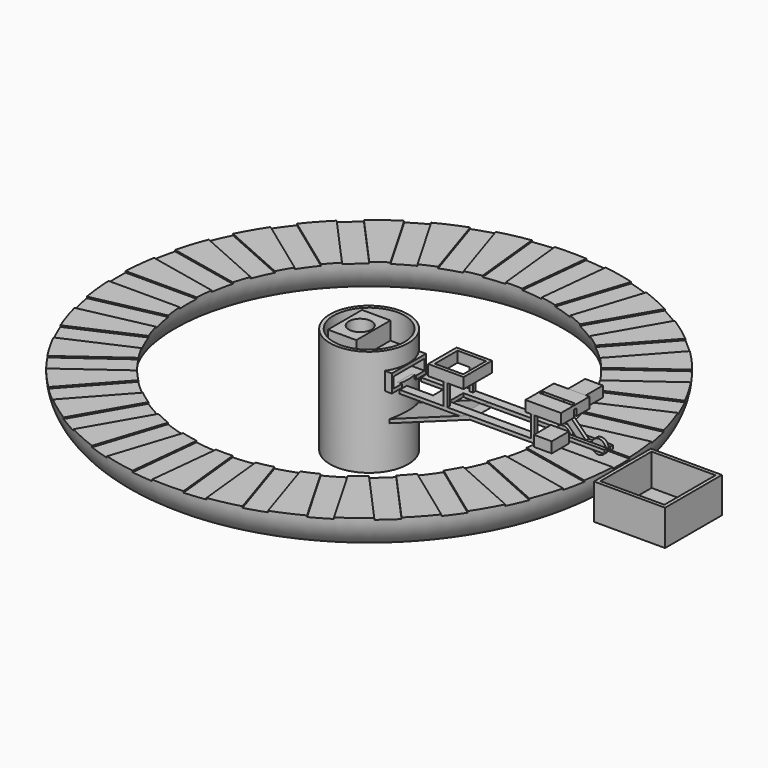
from build123d import *

# Parameters (mm, degrees)
BOX008_W                 = 120
BOX008_H                 = 110
BOX008_DEPTH             = 30
CYLINDER001_R            = 100
CYLINDER001_DEPTH        = 300
CYLINDER_R               = 110
CYLINDER_DEPTH           = 300
BOX009_W                 = 100
BOX009_H                 = 50
BOX009_DEPTH             = 10
BOX003_W                 = 120
BOX003_H                 = 110
BOX003_DEPTH             = 30
BOX004_W                 = 120
BOX004_H                 = 110
BOX004_DEPTH             = 30
BOX001_W                 = 100
BOX001_H                 = 120
BOX001_DEPTH             = 50
BOX011_W                 = 250
BOX011_H                 = 50
BOX011_DEPTH             = 10
BOX010_W                 = 100
BOX010_H                 = 50
BOX010_DEPTH             = 10
BOX007_W                 = 380
BOX007_H                 = 100
BOX007_DEPTH             = 10
BOX013_W                 = 100
BOX013_H                 = 50
BOX013_DEPTH             = 10
BOX012_W                 = 250
BOX012_H                 = 100
BOX012_DEPTH             = 10
BOX012_PITCH_ANGLE       = -20
BOX015_W                 = 50
BOX015_H                 = 64
BOX015_DEPTH             = 30
CYLINDER002_R            = 32
CYLINDER002_DEPTH        = 90
BOX014_W                 = 80
BOX014_H                 = 120
BOX014_DEPTH             = 100
CYLINDER003_R            = 20
CYLINDER003_DEPTH        = 10
CYLINDER003_ROLL_ANGLE   = 90
CYLINDER004_R            = 20
CYLINDER004_DEPTH        = 10
CYLINDER004_ROLL_ANGLE   = 90
BOX016_W                 = 150
BOX016_H                 = 10
BOX016_DEPTH             = 10
BOX017_W                 = 150
BOX017_H                 = 10
BOX017_DEPTH             = 10
BOX019_W                 = 150
BOX019_H                 = 10
BOX019_DEPTH             = 10
BOX018_W                 = 20
BOX018_H                 = 10
BOX018_DEPTH             = 100
BOX018_PITCH_ANGLE       = -45
TORUS001_R               = 2
TORUS001_ROLL_ANGLE      = 89.992927
TORUS001_PITCH_ANGLE     = -0.636553
TORUS001_PLACEMENT_ANGLE = 0.636632
CYLINDER005_R            = 5
CYLINDER005_DEPTH        = 5
CYLINDER005_ROLL_ANGLE   = 90
TORUS002_R               = 2
TORUS002_ROLL_ANGLE      = 89.992927
TORUS002_PITCH_ANGLE     = -0.636553
TORUS002_PLACEMENT_ANGLE = 0.636632
CYLINDER006_R            = 5
CYLINDER006_DEPTH        = 5
CYLINDER006_ROLL_ANGLE   = 90
BOX020_W                 = 50
BOX020_H                 = 60
BOX020_DEPTH             = 30
BOX021_W                 = 60
BOX021_H                 = 10
BOX021_DEPTH             = 10
BOX021_PITCH_ANGLE       = 90
BOX022_W                 = 60
BOX022_H                 = 10
BOX022_DEPTH             = 10
BOX022_PITCH_ANGLE       = 90
BOX025_W                 = 90
BOX025_H                 = 10
BOX025_DEPTH             = 30
BOX024_W                 = 90
BOX024_H                 = 10
BOX024_DEPTH             = 30
BOX023_W                 = 100
BOX023_H                 = 100
BOX023_DEPTH             = 30
BOX026_W                 = 50
BOX026_H                 = 60
BOX026_DEPTH             = 30
BOX027_W                 = 60
BOX027_H                 = 10
BOX027_DEPTH             = 10
BOX027_PITCH_ANGLE       = 90
BOX028_W                 = 60
BOX028_H                 = 10
BOX028_DEPTH             = 10
BOX028_PITCH_ANGLE       = 90
BOX030_W                 = 80
BOX030_H                 = 80
BOX030_DEPTH             = 30
BOX029_W                 = 100
BOX029_H                 = 100
BOX029_DEPTH             = 30
BOX035_W                 = 180
BOX035_H                 = 180
BOX035_DEPTH             = 90
BOX034_W                 = 200
BOX034_H                 = 200
BOX034_DEPTH             = 100
BOX036_W                 = 206
BOX036_H                 = 60
BOX036_DEPTH             = 30
ARRAY_COUNT              = 30
BOX_W                    = 1500
BOX_H                    = 1500
BOX_DEPTH                = 150
TORUS_R                  = 100


with BuildPart() as obj1:
    # Box008 → Box008 (new body)
    with BuildSketch(Plane(origin=(4, -55, 10), x_dir=(1, 0, 0), z_dir=(0, 0, 1))):
        with Locations((60, 55)):
            Rectangle(BOX008_W, BOX008_H)
    extrude(amount=BOX008_DEPTH)


with BuildPart() as zylinder001:
    # Cylinder001 → Cylinder001 (new body)
    with BuildSketch(Plane.XY.offset(-10)):
        Circle(CYLINDER001_R)
    extrude(amount=CYLINDER001_DEPTH)


with BuildPart() as cut005:
    # Cylinder → Cylinder (new body)
    with BuildSketch(Plane.XY.offset(-200)):
        Circle(CYLINDER_R)
    extrude(amount=CYLINDER_DEPTH)

    # Cut004: cut Zylinder001
    add(zylinder001.part, mode=Mode.SUBTRACT)

    # Cut005: cut obj1
    add(obj1.part, mode=Mode.SUBTRACT)


with BuildPart() as obj2:
    # Box009 → Box009 (new body)
    with BuildSketch(Plane(origin=(100, -25, 0), x_dir=(1, 0, 0), z_dir=(0, 0, 1))):
        with Locations((50, 25)):
            Rectangle(BOX009_W, BOX009_H)
    extrude(amount=BOX009_DEPTH)


with BuildPart() as obj3:
    # Box003 → Box003 (new body)
    with BuildSketch(Plane(origin=(4, -55, 10), x_dir=(1, 0, 0), z_dir=(0, 0, 1))):
        with Locations((60, 55)):
            Rectangle(BOX003_W, BOX003_H)
    extrude(amount=BOX003_DEPTH)


with BuildPart() as obj4:
    # Box004 → Box004 (new body)
    with BuildSketch(Plane(origin=(4, -55, 10), x_dir=(1, 0, 0), z_dir=(0, 0, 1))):
        with Locations((60, 55)):
            Rectangle(BOX004_W, BOX004_H)
    extrude(amount=BOX004_DEPTH)


with BuildPart() as cut008:
    # Box001 → Box001 (new body)
    with BuildSketch(Plane(origin=(12, -60, 0), x_dir=(1, 0, 0), z_dir=(0, 0, 1))):
        with Locations((50, 60)):
            Rectangle(BOX001_W, BOX001_H)
    extrude(amount=BOX001_DEPTH)

    # Cut003: cut obj4
    add(obj4.part, mode=Mode.SUBTRACT)

    # Cut006: cut obj3
    add(obj3.part, mode=Mode.SUBTRACT)

    # Cut008: cut obj2
    add(obj2.part, mode=Mode.SUBTRACT)


with BuildPart() as obj5:
    # Box011 → Box011 (new body)
    with BuildSketch(Plane(origin=(245, -25, 0), x_dir=(1, 0, 0), z_dir=(0, 0, 1))):
        with Locations((125, 25)):
            Rectangle(BOX011_W, BOX011_H)
    extrude(amount=BOX011_DEPTH)


with BuildPart() as obj6:
    # Box010 → Box010 (new body)
    with BuildSketch(Plane(origin=(100, -25, 0), x_dir=(1, 0, 0), z_dir=(0, 0, 1))):
        with Locations((50, 25)):
            Rectangle(BOX010_W, BOX010_H)
    extrude(amount=BOX010_DEPTH)


with BuildPart() as cut009:
    # Box007 → Box007 (new body)
    with BuildSketch(Plane(origin=(126, -50, 0), x_dir=(1, 0, 0), z_dir=(0, 0, 1))):
        with Locations((190, 50)):
            Rectangle(BOX007_W, BOX007_H)
    extrude(amount=BOX007_DEPTH)

    # Cut007: cut obj6
    add(obj6.part, mode=Mode.SUBTRACT)

    # Cut009: cut obj5
    add(obj5.part, mode=Mode.SUBTRACT)


with BuildPart() as obj7:
    # Box013 → Box013 (new body)
    with BuildSketch(Plane(origin=(260, -25, 0), x_dir=(1, 0, 0), z_dir=(0, 0, 1))):
        with Locations((50, 25)):
            Rectangle(BOX013_W, BOX013_H)
    extrude(amount=BOX013_DEPTH)


with BuildPart() as cut010:
    # Box012 → Box012 (new body)
    with BuildSketch(Plane.XY):
        with Locations((125, 50)):
            Rectangle(BOX012_W, BOX012_H)
    extrude(amount=BOX012_DEPTH)


with BuildPart() as cut010_1:
    # Box012 pitch: moved
    add(cut010.part.rotate(Axis((0, 0, 0), (0, 1, 0)), BOX012_PITCH_ANGLE))


with BuildPart() as cut010_2:
    # Box012 placement: moved
    add(cut010_1.part.moved(Location((90, -50, -85))))

    # Cut010: cut obj7
    add(obj7.part, mode=Mode.SUBTRACT)


with BuildPart() as obj8:
    # Box015 → Box015 (new body)
    with BuildSketch(Plane(origin=(-25, -32, 10), x_dir=(1, 0, 0), z_dir=(0, 0, 1))):
        with Locations((25, 32)):
            Rectangle(BOX015_W, BOX015_H)
    extrude(amount=BOX015_DEPTH)


with BuildPart() as zylinder002:
    # Cylinder002 → Cylinder002 (new body)
    with BuildSketch(Plane(origin=(-25, 0, 10), x_dir=(1, 0, 0), z_dir=(0, 0, 1))):
        Circle(CYLINDER002_R)
    extrude(amount=CYLINDER002_DEPTH)


with BuildPart() as cut012:
    # Box014 → Box014 (new body)
    with BuildSketch(Plane(origin=(-68, -60, 0), x_dir=(1, 0, 0), z_dir=(0, 0, 1))):
        with Locations((40, 60)):
            Rectangle(BOX014_W, BOX014_H)
    extrude(amount=BOX014_DEPTH)

    # Cut011: cut Zylinder002
    add(zylinder002.part, mode=Mode.SUBTRACT)

    # Cut012: cut obj8
    add(obj8.part, mode=Mode.SUBTRACT)


with BuildPart() as zylinder003:
    # Cylinder003 → Cylinder003 (new body)
    with BuildSketch(Plane.XY):
        Circle(CYLINDER003_R)
    extrude(amount=CYLINDER003_DEPTH)


with BuildPart() as zylinder003_1:
    # Cylinder003 roll: moved
    add(zylinder003.part.rotate(Axis((0, 0, 0), (1, 0, 0)), CYLINDER003_ROLL_ANGLE))


with BuildPart() as zylinder003_2:
    # Cylinder003 placement: moved
    add(zylinder003_1.part.moved(Location((550, 5, 21))))


with BuildPart() as zylinder004:
    # Cylinder004 → Cylinder004 (new body)
    with BuildSketch(Plane.XY):
        Circle(CYLINDER004_R)
    extrude(amount=CYLINDER004_DEPTH)


with BuildPart() as zylinder004_1:
    # Cylinder004 roll: moved
    add(zylinder004.part.rotate(Axis((0, 0, 0), (1, 0, 0)), CYLINDER004_ROLL_ANGLE))


with BuildPart() as zylinder004_2:
    # Cylinder004 placement: moved
    add(zylinder004_1.part.moved(Location((650, 5, 21))))


with BuildPart() as obj9:
    # Box016 → Box016 (new body)
    with BuildSketch(Plane(origin=(524, -15, 15), x_dir=(1, 0, 0), z_dir=(0, 0, 1))):
        with Locations((75, 5)):
            Rectangle(BOX016_W, BOX016_H)
    extrude(amount=BOX016_DEPTH)


with BuildPart() as obj10:
    # Box017 → Box017 (new body)
    with BuildSketch(Plane(origin=(524, 5, 15), x_dir=(1, 0, 0), z_dir=(0, 0, 1))):
        with Locations((75, 5)):
            Rectangle(BOX017_W, BOX017_H)
    extrude(amount=BOX017_DEPTH)


with BuildPart() as obj11:
    # Box019 → Box019 (new body)
    with BuildSketch(Plane(origin=(524, -5, 5), x_dir=(1, 0, 0), z_dir=(0, 0, 1))):
        with Locations((75, 5)):
            Rectangle(BOX019_W, BOX019_H)
    extrude(amount=BOX019_DEPTH)


with BuildPart() as cut013:
    # Box018 → Box018 (new body)
    with BuildSketch(Plane.XY):
        with Locations((10, 5)):
            Rectangle(BOX018_W, BOX018_H)
    extrude(amount=BOX018_DEPTH)


with BuildPart() as cut013_1:
    # Box018 pitch: moved
    add(cut013.part.rotate(Axis((0, 0, 0), (0, 1, 0)), BOX018_PITCH_ANGLE))


with BuildPart() as cut013_2:
    # Box018 placement: moved
    add(cut013_1.part.moved(Location((600, -5, 11))))

    # Cut013: cut obj11
    add(obj11.part, mode=Mode.SUBTRACT)


with BuildPart() as torus001:
    # Torus001 → Torus001 (revolve)
    with BuildSketch(Plane.XZ):
        with Locations((5, 0)):
            Circle(TORUS001_R)
    revolve(axis=Axis((0, 0, 0), (0, 0, 1)))


with BuildPart() as torus001_1:
    # Torus001 roll: moved
    add(torus001.part.rotate(Axis((0, 0, 0), (1, 0, 0)), TORUS001_ROLL_ANGLE))


with BuildPart() as torus001_2:
    # Torus001 pitch: moved
    add(torus001_1.part.rotate(Axis((0, 0, 0), (0, 1, 0)), TORUS001_PITCH_ANGLE))


with BuildPart() as torus001_3:
    # Torus001 placement: moved
    add(torus001_2.part.moved(Location((550, 17.5, 21))).rotate(Axis((550, 17.5, 21), (0, 0, 1)), TORUS001_PLACEMENT_ANGLE))


with BuildPart() as cut014:
    # Cylinder005 → Cylinder005 (new body)
    with BuildSketch(Plane.XY):
        Circle(CYLINDER005_R)
    extrude(amount=CYLINDER005_DEPTH)


with BuildPart() as cut014_1:
    # Cylinder005 roll: moved
    add(cut014.part.rotate(Axis((0, 0, 0), (1, 0, 0)), CYLINDER005_ROLL_ANGLE))


with BuildPart() as cut014_2:
    # Cylinder005 placement: moved
    add(cut014_1.part.moved(Location((550, 20, 21))))

    # Cut014: cut Torus001
    add(torus001_3.part, mode=Mode.SUBTRACT)


with BuildPart() as torus002:
    # Torus002 → Torus002 (revolve)
    with BuildSketch(Plane.XZ):
        with Locations((5, 0)):
            Circle(TORUS002_R)
    revolve(axis=Axis((0, 0, 0), (0, 0, 1)))


with BuildPart() as torus002_1:
    # Torus002 roll: moved
    add(torus002.part.rotate(Axis((0, 0, 0), (1, 0, 0)), TORUS002_ROLL_ANGLE))


with BuildPart() as torus002_2:
    # Torus002 pitch: moved
    add(torus002_1.part.rotate(Axis((0, 0, 0), (0, 1, 0)), TORUS002_PITCH_ANGLE))


with BuildPart() as torus002_3:
    # Torus002 placement: moved
    add(torus002_2.part.moved(Location((550, 17.5, 21))).rotate(Axis((550, 17.5, 21), (0, 0, 1)), TORUS002_PLACEMENT_ANGLE))


with BuildPart() as cut015:
    # Cylinder006 → Cylinder006 (new body)
    with BuildSketch(Plane.XY):
        Circle(CYLINDER006_R)
    extrude(amount=CYLINDER006_DEPTH)


with BuildPart() as cut015_1:
    # Cylinder006 roll: moved
    add(cut015.part.rotate(Axis((0, 0, 0), (1, 0, 0)), CYLINDER006_ROLL_ANGLE))


with BuildPart() as cut015_2:
    # Cylinder006 placement: moved
    add(cut015_1.part.moved(Location((550, 20, 21))))

    # Cut015: cut Torus002
    add(torus002_3.part, mode=Mode.SUBTRACT)


with BuildPart() as cut015_3:
    # Cut015 placement: moved
    add(cut015_2.part.moved(Location((100, 0, 0))))


with BuildPart() as obj12:
    # Box020 → Box020 (new body)
    with BuildSketch(Plane(origin=(524, -75, 8), x_dir=(1, 0, 0), z_dir=(0, 0, 1))):
        with Locations((25, 30)):
            Rectangle(BOX020_W, BOX020_H)
    extrude(amount=BOX020_DEPTH)


with BuildPart() as obj13:
    # Box021 → Box021 (new body)
    with BuildSketch(Plane.XY):
        with Locations((30, 5)):
            Rectangle(BOX021_W, BOX021_H)
    extrude(amount=BOX021_DEPTH)


with BuildPart() as obj13_1:
    # Box021 pitch: moved
    add(obj13.part.rotate(Axis((0, 0, 0), (0, 1, 0)), BOX021_PITCH_ANGLE))


with BuildPart() as obj13_2:
    # Box021 placement: moved
    add(obj13_1.part.moved(Location((496, 40, 70))))


with BuildPart() as obj14:
    # Box022 → Box022 (new body)
    with BuildSketch(Plane.XY):
        with Locations((30, 5)):
            Rectangle(BOX022_W, BOX022_H)
    extrude(amount=BOX022_DEPTH)


with BuildPart() as obj14_1:
    # Box022 pitch: moved
    add(obj14.part.rotate(Axis((0, 0, 0), (0, 1, 0)), BOX022_PITCH_ANGLE))


with BuildPart() as obj14_2:
    # Box022 placement: moved
    add(obj14_1.part.moved(Location((496, -50, 70))))


with BuildPart() as obj15:
    # Box025 → Box025 (new body)
    with BuildSketch(Plane(origin=(570, -5, 60), x_dir=(1, 0, 0), z_dir=(0, 0, 1))):
        with Locations((45, 5)):
            Rectangle(BOX025_W, BOX025_H)
    extrude(amount=BOX025_DEPTH)


with BuildPart() as obj16:
    # Box024 → Box024 (new body)
    with BuildSketch(Plane(origin=(485, -5, 70), x_dir=(1, 0, 0), z_dir=(0, 0, 1))):
        with Locations((45, 5)):
            Rectangle(BOX024_W, BOX024_H)
    extrude(amount=BOX024_DEPTH)


with BuildPart() as cut017:
    # Box023 → Box023 (new body)
    with BuildSketch(Plane(origin=(480, -50, 70), x_dir=(1, 0, 0), z_dir=(0, 0, 1))):
        with Locations((50, 50)):
            Rectangle(BOX023_W, BOX023_H)
    extrude(amount=BOX023_DEPTH)

    # Cut016: cut obj16
    add(obj16.part, mode=Mode.SUBTRACT)

    # Cut017: cut obj15
    add(obj15.part, mode=Mode.SUBTRACT)


with BuildPart() as obj17:
    # Box026 → Box026 (new body)
    with BuildSketch(Plane(origin=(520, 50, 70), x_dir=(1, 0, 0), z_dir=(0, 0, 1))):
        with Locations((25, 30)):
            Rectangle(BOX026_W, BOX026_H)
    extrude(amount=BOX026_DEPTH)


with BuildPart() as obj18:
    # Box027 → Box027 (new body)
    with BuildSketch(Plane.XY):
        with Locations((30, 5)):
            Rectangle(BOX027_W, BOX027_H)
    extrude(amount=BOX027_DEPTH)


with BuildPart() as obj18_1:
    # Box027 pitch: moved
    add(obj18.part.rotate(Axis((0, 0, 0), (0, 1, 0)), BOX027_PITCH_ANGLE))


with BuildPart() as obj18_2:
    # Box027 placement: moved
    add(obj18_1.part.moved(Location((250, -50, 70))))


with BuildPart() as obj19:
    # Box028 → Box028 (new body)
    with BuildSketch(Plane.XY):
        with Locations((30, 5)):
            Rectangle(BOX028_W, BOX028_H)
    extrude(amount=BOX028_DEPTH)


with BuildPart() as obj19_1:
    # Box028 pitch: moved
    add(obj19.part.rotate(Axis((0, 0, 0), (0, 1, 0)), BOX028_PITCH_ANGLE))


with BuildPart() as obj19_2:
    # Box028 placement: moved
    add(obj19_1.part.moved(Location((250, 40, 70))))


with BuildPart() as obj20:
    # Box030 → Box030 (new body)
    with BuildSketch(Plane(origin=(217, -40, 70), x_dir=(1, 0, 0), z_dir=(0, 0, 1))):
        with Locations((40, 40)):
            Rectangle(BOX030_W, BOX030_H)
    extrude(amount=BOX030_DEPTH)


with BuildPart() as cut018:
    # Box029 → Box029 (new body)
    with BuildSketch(Plane(origin=(206, -50, 70), x_dir=(1, 0, 0), z_dir=(0, 0, 1))):
        with Locations((50, 50)):
            Rectangle(BOX029_W, BOX029_H)
    extrude(amount=BOX029_DEPTH)

    # Cut018: cut obj20
    add(obj20.part, mode=Mode.SUBTRACT)


with BuildPart() as obj21:
    # Box035 → Box035 (new body)
    with BuildSketch(Plane(origin=(725, -90, -90), x_dir=(1, 0, 0), z_dir=(0, 0, 1))):
        with Locations((90, 90)):
            Rectangle(BOX035_W, BOX035_H)
    extrude(amount=BOX035_DEPTH)


with BuildPart() as cut019:
    # Box034 → Box034 (new body)
    with BuildSketch(Plane(origin=(715, -100, -100), x_dir=(1, 0, 0), z_dir=(0, 0, 1))):
        with Locations((100, 100)):
            Rectangle(BOX034_W, BOX034_H)
    extrude(amount=BOX034_DEPTH)

    # Cut019: cut obj21
    add(obj21.part, mode=Mode.SUBTRACT)


with BuildPart() as cut019_1:
    # Cut019 placement: moved
    add(cut019.part.moved(Location((-2, 0, -6))))


with BuildPart() as array:
    # Box036 → Box036 (new body)
    with BuildSketch(Plane(origin=(507, -30, -4), x_dir=(1, 0, 0), z_dir=(0, 0, 1))):
        with Locations((103, 30)):
            Rectangle(BOX036_W, BOX036_H)
    extrude(amount=BOX036_DEPTH)

    # Array: Array ×30 about axis
    array_axis = Axis((0, 0, 0), (0, 0, 1))


with BuildPart() as array_1:
    add(array.part)
    for i in range(1, ARRAY_COUNT):
        add(array.part.rotate(array_axis, i * 360 / ARRAY_COUNT))


with BuildPart() as obj22:
    # Box → Box (new body)
    with BuildSketch(Plane(origin=(-750, -750, 0), x_dir=(1, 0, 0), z_dir=(0, 0, 1))):
        with Locations((750, 750)):
            Rectangle(BOX_W, BOX_H)
    extrude(amount=BOX_DEPTH)


with BuildPart() as cut020:
    # Torus → Torus (revolve)
    with BuildSketch(Plane.XZ):
        with Locations((610, 0)):
            Circle(TORUS_R)
    revolve(axis=Axis((0, 0, 0), (0, 0, 1)))

    # Cut: cut obj22
    add(obj22.part, mode=Mode.SUBTRACT)

    # Cut020: cut Array
    add(array_1.part, mode=Mode.SUBTRACT)


solid = Compound([cut005.part, cut008.part, cut009.part, cut010_2.part, cut012.part, zylinder003_2.part, zylinder004_2.part, obj9.part, obj10.part, cut013_2.part, cut014_2.part, cut015_3.part, obj12.part, obj13_2.part, obj14_2.part, cut017.part, obj17.part, obj18_2.part, obj19_2.part, cut018.part, cut019_1.part, cut020.part])
